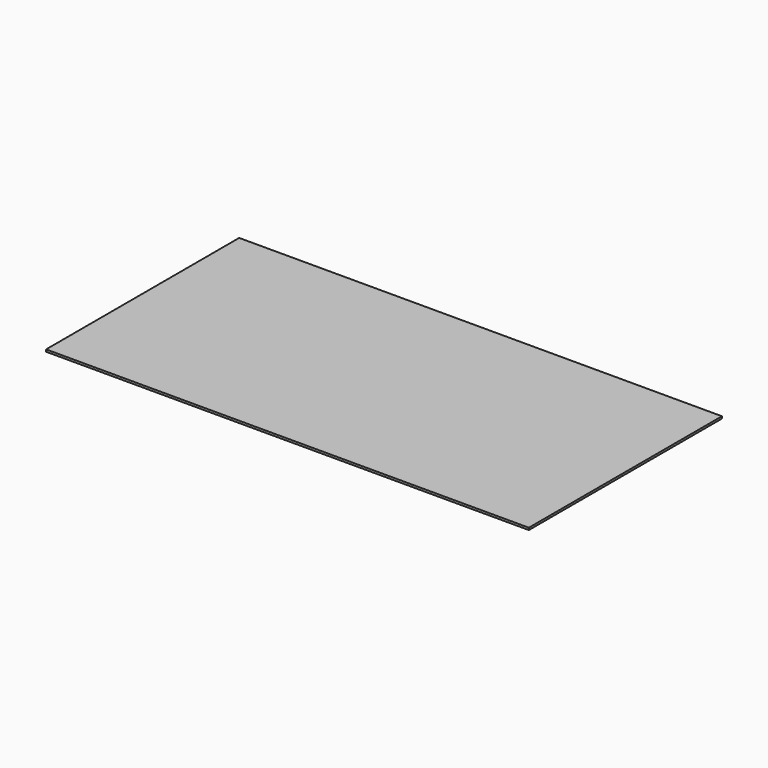
from build123d import *

# Parameters (mm, degrees)
F0_W     = 1250
F0_H     = 650
F0_H_2   = 600
F1_DEPTH = 11


with BuildPart() as f1:
    # F0 (on Top) → F1 (new body)
    with BuildSketch(Plane.XY):
        with Locations((625, -300)):
            Rectangle(F0_W, F0_H)
        with Locations((-625, -300)):
            Rectangle(F0_W, F0_H)
        with Locations((625, 325)):
            Rectangle(F0_W, F0_H_2)
        with Locations((-625, 325)):
            Rectangle(F0_W, F0_H_2)
    extrude(amount=F1_DEPTH)


solid = f1.part
